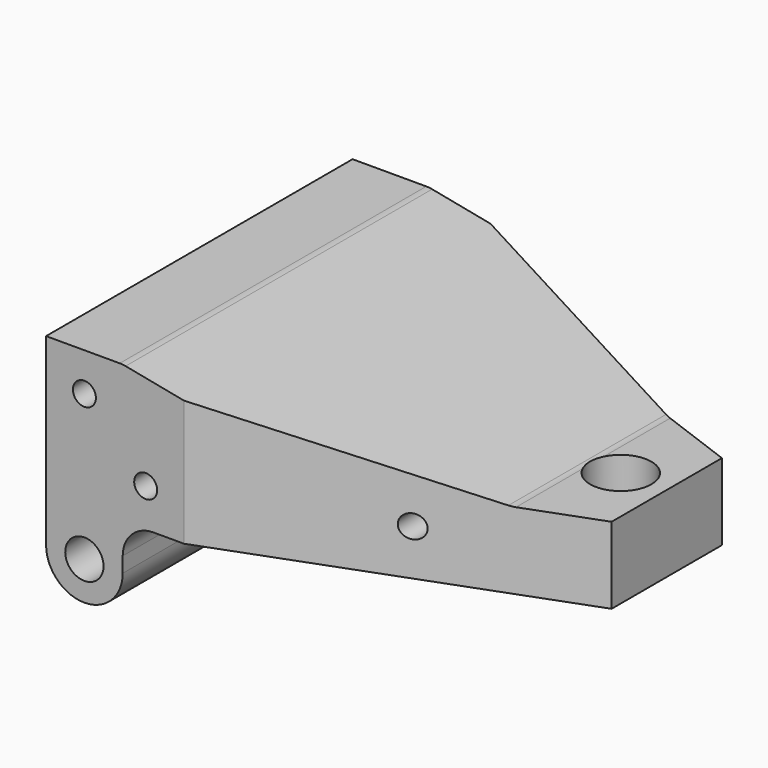
from build123d import *

# Parameters (mm, degrees)
F0_R     = 1.5
F1_DEPTH = 25
F3_D     = 5
F4_R     = 4
F6_D     = 8
F8_DEPTH = 29.001


with BuildPart() as f1:
    # F0 (on Front) → F1 (new body, symmetric)
    with BuildSketch(Plane.XZ):
        with BuildLine():
            Line((5, 24), (-5, 24))
            Line((-5, 24), (-5, 0))
            ThreePointArc((-5, 0), (0, -5), (5, 0))
            Line((5, 0), (5, 6))
            Line((5, 6), (56, 6))
            Line((56, 6), (56, 16))
            Line((56, 16), (46, 16))
            Line((46, 16), (5, 24))
        make_face()
        with Locations((8, 11)):
            Circle(F0_R, mode=Mode.SUBTRACT)
        with Locations((0, 19)):
            Circle(F0_R, mode=Mode.SUBTRACT)
        with Locations((36, 12)):
            Circle(F0_R, mode=Mode.SUBTRACT)
    extrude(amount=F1_DEPTH, both=True)

    # F3 (through all)
    with Locations(Plane.XZ.offset(25)):
        with Locations((0, 0)):
            Hole(F3_D / 2)

    # F4
    f4_edges = [f1.edges().sort_by_distance(p)[0] for p in [
        (5, 0, 6),
        (5, 0, 24),
        (46, 0, 16),
    ]]
    fillet(f4_edges, radius=F4_R)

    # F6 (through all)
    with Locations(Plane.XY.offset(24)):
        with Locations((50, 0)):
            Hole(F6_D / 2)

    # F7 (on face) → F8 (cut, through all)
    with BuildSketch(Plane.XY.offset(24)):
        Polygon((13, 45), (13, 25), (56, 9), (56, -9), (13, -25), (13, -45), (76, -45), (76, 45), align=None)
    extrude(amount=-F8_DEPTH, mode=Mode.SUBTRACT)


solid = f1.part
